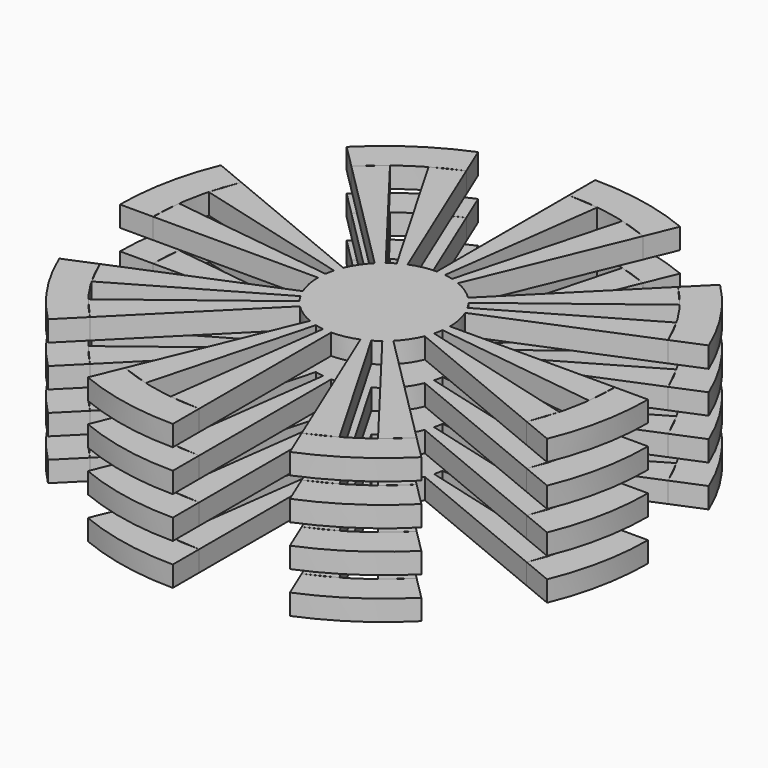
from build123d import *

# Parameters (mm, degrees)
F1_DEPTH = 12.5
F2_DEPTH = 12.5
F4_DEPTH = 12.5
F5_W     = 20
F5_H     = 1.5625


with BuildPart() as f1:
    # F0 (on Top) → F1 (new body)
    with BuildSketch(Plane.XY):
        with BuildLine():
            Line((17.5, 0), (20, 0))
            ThreePointArc((20, 0), (19.6157056081, 3.9018064403), (18.4775906502, 7.6536686473))
            Line((18.4775906502, 7.6536686473), (16.1678918189, 6.6969600664))
            ThreePointArc((16.1678918189, 6.6969600664), (17.1637424071, 3.4140806353), (17.5, 0))
        make_face()
        with BuildLine():
            ThreePointArc((18.4775906502, -7.6536686473), (19.6157056081, -3.9018064403), (20, 0))
            Line((20, 0), (17.5, 0))
            ThreePointArc((17.5, 0), (17.1637424071, -3.4140806353), (16.1678918189, -6.6969600664))
            Line((16.1678918189, -6.6969600664), (18.4775906502, -7.6536686473))
        make_face()
        with BuildLine():
            Line((16.1678918189, 6.6969600664), (18.4775906502, 7.6536686473))
            ThreePointArc((18.4775906502, 7.6536686473), (16.6293922461, 11.1114046604), (14.1421356237, 14.1421356237))
            Line((14.1421356237, 14.1421356237), (12.3743686708, 12.3743686708))
            ThreePointArc((12.3743686708, 12.3743686708), (14.5507182153, 9.7224790778), (16.1678918189, 6.6969600664))
        make_face()
        with BuildLine():
            ThreePointArc((14.1421356237, -14.1421356237), (16.6293922461, -11.1114046604), (18.4775906502, -7.6536686473))
            Line((18.4775906502, -7.6536686473), (16.1678918189, -6.6969600664))
            ThreePointArc((16.1678918189, -6.6969600664), (14.5507182153, -9.7224790778), (12.3743686708, -12.3743686708))
            Line((12.3743686708, -12.3743686708), (14.1421356237, -14.1421356237))
        make_face()
        with BuildLine():
            Line((12.3743686708, 12.3743686708), (14.1421356237, 14.1421356237))
            ThreePointArc((14.1421356237, 14.1421356237), (11.1114046604, 16.6293922461), (7.6536686473, 18.4775906502))
            Line((7.6536686473, 18.4775906502), (6.6969600664, 16.1678918189))
            ThreePointArc((6.6969600664, 16.1678918189), (9.7224790778, 14.5507182153), (12.3743686708, 12.3743686708))
        make_face()
        with BuildLine():
            ThreePointArc((7.6536686473, -18.4775906502), (11.1114046604, -16.6293922461), (14.1421356237, -14.1421356237))
            Line((14.1421356237, -14.1421356237), (12.3743686708, -12.3743686708))
            ThreePointArc((12.3743686708, -12.3743686708), (9.7224790778, -14.5507182153), (6.6969600664, -16.1678918189))
            Line((6.6969600664, -16.1678918189), (7.6536686473, -18.4775906502))
        make_face()
        with BuildLine():
            Line((6.6969600664, 16.1678918189), (7.6536686473, 18.4775906502))
            ThreePointArc((7.6536686473, 18.4775906502), (3.9018064403, 19.6157056081), (0, 20))
            Line((0, 20), (0, 17.5))
            ThreePointArc((0, 17.5), (3.4140806353, 17.1637424071), (6.6969600664, 16.1678918189))
        make_face()
        with BuildLine():
            ThreePointArc((0, -20), (3.9018064403, -19.6157056081), (7.6536686473, -18.4775906502))
            Line((7.6536686473, -18.4775906502), (6.6969600664, -16.1678918189))
            ThreePointArc((6.6969600664, -16.1678918189), (3.4140806353, -17.1637424071), (0, -17.5))
            Line((0, -17.5), (0, -20))
        make_face()
        with BuildLine():
            ThreePointArc((-6.6969600664, 16.1678918189), (-3.4140806353, 17.1637424071), (0, 17.5))
            Line((0, 17.5), (0, 20))
            ThreePointArc((0, 20), (-3.9018064403, 19.6157056081), (-7.6536686473, 18.4775906502))
            Line((-7.6536686473, 18.4775906502), (-6.6969600664, 16.1678918189))
        make_face()
        with BuildLine():
            Line((0, -20), (0, -17.5))
            ThreePointArc((0, -17.5), (-3.4140806353, -17.1637424071), (-6.6969600664, -16.1678918189))
            Line((-6.6969600664, -16.1678918189), (-7.6536686473, -18.4775906502))
            ThreePointArc((-7.6536686473, -18.4775906502), (-3.9018064403, -19.6157056081), (0, -20))
        make_face()
        with BuildLine():
            ThreePointArc((-12.3743686708, 12.3743686708), (-9.7224790778, 14.5507182153), (-6.6969600664, 16.1678918189))
            Line((-6.6969600664, 16.1678918189), (-7.6536686473, 18.4775906502))
            ThreePointArc((-7.6536686473, 18.4775906502), (-11.1114046604, 16.6293922461), (-14.1421356237, 14.1421356237))
            Line((-14.1421356237, 14.1421356237), (-12.3743686708, 12.3743686708))
        make_face()
        with BuildLine():
            ThreePointArc((-16.1678918189, 6.6969600664), (-14.5507182153, 9.7224790778), (-12.3743686708, 12.3743686708))
            Line((-12.3743686708, 12.3743686708), (-14.1421356237, 14.1421356237))
            ThreePointArc((-14.1421356237, 14.1421356237), (-16.6293922461, 11.1114046604), (-18.4775906502, 7.6536686473))
            Line((-18.4775906502, 7.6536686473), (-16.1678918189, 6.6969600664))
        make_face()
        with BuildLine():
            ThreePointArc((-17.5, 0), (-17.1637424071, 3.4140806353), (-16.1678918189, 6.6969600664))
            Line((-16.1678918189, 6.6969600664), (-18.4775906502, 7.6536686473))
            ThreePointArc((-18.4775906502, 7.6536686473), (-19.6157056081, 3.9018064403), (-20, 0))
            Line((-20, 0), (-17.5, 0))
        make_face()
        with BuildLine():
            ThreePointArc((-16.1678918189, -6.6969600664), (-17.1637424071, -3.4140806353), (-17.5, 0))
            Line((-17.5, 0), (-20, 0))
            ThreePointArc((-20, 0), (-19.6157056081, -3.9018064403), (-18.4775906502, -7.6536686473))
            Line((-18.4775906502, -7.6536686473), (-16.1678918189, -6.6969600664))
        make_face()
        with BuildLine():
            ThreePointArc((-12.3743686708, -12.3743686708), (-14.5507182153, -9.7224790778), (-16.1678918189, -6.6969600664))
            Line((-16.1678918189, -6.6969600664), (-18.4775906502, -7.6536686473))
            ThreePointArc((-18.4775906502, -7.6536686473), (-16.6293922461, -11.1114046604), (-14.1421356237, -14.1421356237))
            Line((-14.1421356237, -14.1421356237), (-12.3743686708, -12.3743686708))
        make_face()
        with BuildLine():
            ThreePointArc((-6.6969600664, -16.1678918189), (-9.7224790778, -14.5507182153), (-12.3743686708, -12.3743686708))
            Line((-12.3743686708, -12.3743686708), (-14.1421356237, -14.1421356237))
            ThreePointArc((-14.1421356237, -14.1421356237), (-11.1114046604, -16.6293922461), (-7.6536686473, -18.4775906502))
            Line((-7.6536686473, -18.4775906502), (-6.6969600664, -16.1678918189))
        make_face()
    extrude(amount=F1_DEPTH)

    # F0 (on Top) → F2 (cut)
    with BuildSketch(Plane.XY):
        with BuildLine():
            ThreePointArc((-6.6969600664, 16.1678918189), (-3.4140806353, 17.1637424071), (0, 17.5))
            Line((0, 17.5), (0, 20))
            ThreePointArc((0, 20), (-3.9018064403, 19.6157056081), (-7.6536686473, 18.4775906502))
            Line((-7.6536686473, 18.4775906502), (-6.6969600664, 16.1678918189))
        make_face()
        with BuildLine():
            ThreePointArc((14.1421356237, -14.1421356237), (16.6293922461, -11.1114046604), (18.4775906502, -7.6536686473))
            Line((18.4775906502, -7.6536686473), (16.1678918189, -6.6969600664))
            ThreePointArc((16.1678918189, -6.6969600664), (14.5507182153, -9.7224790778), (12.3743686708, -12.3743686708))
            Line((12.3743686708, -12.3743686708), (14.1421356237, -14.1421356237))
        make_face()
        with BuildLine():
            ThreePointArc((-16.1678918189, -6.6969600664), (-17.1637424071, -3.4140806353), (-17.5, 0))
            Line((-17.5, 0), (-20, 0))
            ThreePointArc((-20, 0), (-19.6157056081, -3.9018064403), (-18.4775906502, -7.6536686473))
            Line((-18.4775906502, -7.6536686473), (-16.1678918189, -6.6969600664))
        make_face()
        with BuildLine():
            ThreePointArc((-6.6969600664, -16.1678918189), (-9.7224790778, -14.5507182153), (-12.3743686708, -12.3743686708))
            Line((-12.3743686708, -12.3743686708), (-14.1421356237, -14.1421356237))
            ThreePointArc((-14.1421356237, -14.1421356237), (-11.1114046604, -16.6293922461), (-7.6536686473, -18.4775906502))
            Line((-7.6536686473, -18.4775906502), (-6.6969600664, -16.1678918189))
        make_face()
        with BuildLine():
            ThreePointArc((0, -20), (3.9018064403, -19.6157056081), (7.6536686473, -18.4775906502))
            Line((7.6536686473, -18.4775906502), (6.6969600664, -16.1678918189))
            ThreePointArc((6.6969600664, -16.1678918189), (3.4140806353, -17.1637424071), (0, -17.5))
            Line((0, -17.5), (0, -20))
        make_face()
        with BuildLine():
            ThreePointArc((-16.1678918189, 6.6969600664), (-14.5507182153, 9.7224790778), (-12.3743686708, 12.3743686708))
            Line((-12.3743686708, 12.3743686708), (-14.1421356237, 14.1421356237))
            ThreePointArc((-14.1421356237, 14.1421356237), (-16.6293922461, 11.1114046604), (-18.4775906502, 7.6536686473))
            Line((-18.4775906502, 7.6536686473), (-16.1678918189, 6.6969600664))
        make_face()
        with BuildLine():
            Line((17.5, 0), (20, 0))
            ThreePointArc((20, 0), (19.6157056081, 3.9018064403), (18.4775906502, 7.6536686473))
            Line((18.4775906502, 7.6536686473), (16.1678918189, 6.6969600664))
            ThreePointArc((16.1678918189, 6.6969600664), (17.1637424071, 3.4140806353), (17.5, 0))
        make_face()
        with BuildLine():
            Line((12.3743686708, 12.3743686708), (14.1421356237, 14.1421356237))
            ThreePointArc((14.1421356237, 14.1421356237), (11.1114046604, 16.6293922461), (7.6536686473, 18.4775906502))
            Line((7.6536686473, 18.4775906502), (6.6969600664, 16.1678918189))
            ThreePointArc((6.6969600664, 16.1678918189), (9.7224790778, 14.5507182153), (12.3743686708, 12.3743686708))
        make_face()
    extrude(amount=F2_DEPTH, mode=Mode.SUBTRACT)


with BuildPart() as f4:
    # F3 (on Top) → F4 (new body)
    with BuildSketch(Plane.XY):
        with BuildLine():
            Line((-0.6526309611, -4.9572243069), (0, 0))
            Line((0, 0), (-1.2940952255, -4.8296291314))
            ThreePointArc((-1.2940952255, -4.8296291314), (-0.9754516101, -4.903926402), (-0.6526309611, -4.9572243069))
        make_face()
        with BuildLine():
            Line((3.9667667015, 3.043807145), (0, 0))
            Line((0, 0), (4.3301270189, 2.5))
            ThreePointArc((4.3301270189, 2.5), (4.1573480615, 2.7778511651), (3.9667667015, 3.043807145))
        make_face()
        with BuildLine():
            Line((0, -5), (0, 0))
            Line((0, 0), (-0.6526309611, -4.9572243069))
            ThreePointArc((-0.6526309611, -4.9572243069), (-0.3270156462, -4.9892946162), (0, -5))
        make_face()
        with BuildLine():
            Line((0, 0), (4.6193976626, 1.9134171618))
            ThreePointArc((4.6193976626, 1.9134171618), (4.4843637077, 2.2114434511), (4.3301270189, 2.5))
            Line((4.3301270189, 2.5), (0, 0))
        make_face()
        with BuildLine():
            Line((1.9134171618, -4.6193976626), (0, 0))
            Line((0, 0), (0, -5))
            ThreePointArc((0, -5), (0.9754516101, -4.903926402), (1.9134171618, -4.6193976626))
        make_face()
        with BuildLine():
            Line((0, 0), (5, 0))
            ThreePointArc((5, 0), (4.903926402, 0.9754516101), (4.6193976626, 1.9134171618))
            Line((4.6193976626, 1.9134171618), (0, 0))
        make_face()
        with BuildLine():
            ThreePointArc((4.9572243069, -0.6526309611), (4.9892946162, -0.3270156462), (5, 0))
            Line((5, 0), (0, 0))
            Line((0, 0), (4.9572243069, -0.6526309611))
        make_face()
        with BuildLine():
            Line((2.5, -4.3301270189), (0, 0))
            Line((0, 0), (1.9134171618, -4.6193976626))
            ThreePointArc((1.9134171618, -4.6193976626), (2.2114434511, -4.4843637077), (2.5, -4.3301270189))
        make_face()
        with BuildLine():
            Line((-2.5, 4.3301270189), (0, 0))
            Line((0, 0), (-1.9134171618, 4.6193976626))
            ThreePointArc((-1.9134171618, 4.6193976626), (-2.2114434511, 4.4843637077), (-2.5, 4.3301270189))
        make_face()
        with BuildLine():
            Line((3.043807145, -3.9667667015), (0, 0))
            Line((0, 0), (2.5, -4.3301270189))
            ThreePointArc((2.5, -4.3301270189), (2.7778511651, -4.1573480615), (3.043807145, -3.9667667015))
        make_face()
        with BuildLine():
            Line((-3.043807145, 3.9667667015), (0, 0))
            Line((0, 0), (-2.5, 4.3301270189))
            ThreePointArc((-2.5, 4.3301270189), (-2.7778511651, 4.1573480615), (-3.043807145, 3.9667667015))
        make_face()
        with BuildLine():
            Line((-4.8296291314, 1.2940952255), (0, 0))
            Line((0, 0), (-4.6193976626, 1.9134171618))
            ThreePointArc((-4.6193976626, 1.9134171618), (-4.7346506475, 1.6071973265), (-4.8296291314, 1.2940952255))
        make_face()
        with BuildLine():
            Line((4.8296291314, -1.2940952255), (0, 0))
            Line((0, 0), (4.6193976626, -1.9134171618))
            ThreePointArc((4.6193976626, -1.9134171618), (4.7346506475, -1.6071973265), (4.8296291314, -1.2940952255))
        make_face()
        with BuildLine():
            Line((3.5355339059, -3.5355339059), (0, 0))
            Line((0, 0), (3.043807145, -3.9667667015))
            ThreePointArc((3.043807145, -3.9667667015), (3.2967290755, -3.7591990374), (3.5355339059, -3.5355339059))
        make_face()
        with BuildLine():
            Line((-3.5355339059, 3.5355339059), (0, 0))
            Line((0, 0), (-3.043807145, 3.9667667015))
            ThreePointArc((-3.043807145, 3.9667667015), (-3.2967290755, 3.7591990374), (-3.5355339059, 3.5355339059))
        make_face()
        with BuildLine():
            ThreePointArc((4.8296291314, -1.2940952255), (4.903926402, -0.9754516101), (4.9572243069, -0.6526309611))
            Line((4.9572243069, -0.6526309611), (0, 0))
            Line((0, 0), (4.8296291314, -1.2940952255))
        make_face()
        with BuildLine():
            Line((4.6193976626, -1.9134171618), (0, 0))
            Line((0, 0), (3.5355339059, -3.5355339059))
            ThreePointArc((3.5355339059, -3.5355339059), (4.1573480615, -2.7778511651), (4.6193976626, -1.9134171618))
        make_face()
        with BuildLine():
            Line((-4.6193976626, 1.9134171618), (0, 0))
            Line((0, 0), (-3.5355339059, 3.5355339059))
            ThreePointArc((-3.5355339059, 3.5355339059), (-4.1573480615, 2.7778511651), (-4.6193976626, 1.9134171618))
        make_face()
        with BuildLine():
            Line((0, 5), (0, 0))
            Line((0, 0), (0.6526309611, 4.9572243069))
            ThreePointArc((0.6526309611, 4.9572243069), (0.3270156462, 4.9892946162), (0, 5))
        make_face()
        with BuildLine():
            Line((-4.3301270189, -2.5), (0, 0))
            Line((0, 0), (-4.6193976626, -1.9134171618))
            ThreePointArc((-4.6193976626, -1.9134171618), (-4.4843637077, -2.2114434511), (-4.3301270189, -2.5))
        make_face()
        with BuildLine():
            Line((-1.9134171618, 4.6193976626), (0, 0))
            Line((0, 0), (0, 5))
            ThreePointArc((0, 5), (-0.9754516101, 4.903926402), (-1.9134171618, 4.6193976626))
        make_face()
        with BuildLine():
            Line((-3.9667667015, -3.043807145), (0, 0))
            Line((0, 0), (-4.3301270189, -2.5))
            ThreePointArc((-4.3301270189, -2.5), (-4.1573480615, -2.7778511651), (-3.9667667015, -3.043807145))
        make_face()
        with BuildLine():
            Line((0.6526309611, 4.9572243069), (0, 0))
            Line((0, 0), (1.2940952255, 4.8296291314))
            ThreePointArc((1.2940952255, 4.8296291314), (0.9754516101, 4.903926402), (0.6526309611, 4.9572243069))
        make_face()
        with BuildLine():
            Line((-3.5355339059, -3.5355339059), (0, 0))
            Line((0, 0), (-3.9667667015, -3.043807145))
            ThreePointArc((-3.9667667015, -3.043807145), (-3.7591990374, -3.2967290755), (-3.5355339059, -3.5355339059))
        make_face()
        with BuildLine():
            Line((1.2940952255, 4.8296291314), (0, 0))
            Line((0, 0), (1.9134171618, 4.6193976626))
            ThreePointArc((1.9134171618, 4.6193976626), (1.6071973265, 4.7346506475), (1.2940952255, 4.8296291314))
        make_face()
        with BuildLine():
            Line((-1.9134171618, -4.6193976626), (0, 0))
            Line((0, 0), (-3.5355339059, -3.5355339059))
            ThreePointArc((-3.5355339059, -3.5355339059), (-2.7778511651, -4.1573480615), (-1.9134171618, -4.6193976626))
        make_face()
        with BuildLine():
            Line((1.9134171618, 4.6193976626), (0, 0))
            Line((0, 0), (3.5355339059, 3.5355339059))
            ThreePointArc((3.5355339059, 3.5355339059), (2.7778511651, 4.1573480615), (1.9134171618, 4.6193976626))
        make_face()
        with BuildLine():
            Line((-1.2940952255, -4.8296291314), (0, 0))
            Line((0, 0), (-1.9134171618, -4.6193976626))
            ThreePointArc((-1.9134171618, -4.6193976626), (-1.6071973265, -4.7346506475), (-1.2940952255, -4.8296291314))
        make_face()
        with BuildLine():
            Line((3.5355339059, 3.5355339059), (0, 0))
            Line((0, 0), (3.9667667015, 3.043807145))
            ThreePointArc((3.9667667015, 3.043807145), (3.7591990374, 3.2967290755), (3.5355339059, 3.5355339059))
        make_face()
        with BuildLine():
            Line((-5, 0), (0, 0))
            Line((0, 0), (-4.9572243069, 0.6526309611))
            ThreePointArc((-4.9572243069, 0.6526309611), (-4.9892946162, 0.3270156462), (-5, 0))
        make_face()
        with BuildLine():
            Line((-4.9572243069, 0.6526309611), (0, 0))
            Line((0, 0), (-4.8296291314, 1.2940952255))
            ThreePointArc((-4.8296291314, 1.2940952255), (-4.903926402, 0.9754516101), (-4.9572243069, 0.6526309611))
        make_face()
        with BuildLine():
            Line((-4.6193976626, -1.9134171618), (0, 0))
            Line((0, 0), (-5, 0))
            ThreePointArc((-5, 0), (-4.903926402, -0.9754516101), (-4.6193976626, -1.9134171618))
        make_face()
        with BuildLine():
            Line((12.3743686708, 12.3743686708), (3.5355339059, 3.5355339059))
            ThreePointArc((3.5355339059, 3.5355339059), (3.7591990374, 3.2967290755), (3.9667667015, 3.043807145))
            Line((3.9667667015, 3.043807145), (13.8836834551, 10.6533250077))
            Line((13.8836834551, 10.6533250077), (12.3743686708, 12.3743686708))
        make_face()
        with BuildLine():
            ThreePointArc((4.3301270189, 2.5), (4.4843637077, 2.2114434511), (4.6193976626, 1.9134171618))
            Line((4.6193976626, 1.9134171618), (16.1678918189, 6.6969600664))
            Line((16.1678918189, 6.6969600664), (15.1554445662, 8.75))
            Line((15.1554445662, 8.75), (4.3301270189, 2.5))
        make_face()
        with BuildLine():
            Line((4.5293332893, 16.9037019601), (1.2940952255, 4.8296291314))
            ThreePointArc((1.2940952255, 4.8296291314), (1.6071973265, 4.7346506475), (1.9134171618, 4.6193976626))
            Line((1.9134171618, 4.6193976626), (6.6969600664, 16.1678918189))
            Line((6.6969600664, 16.1678918189), (4.5293332893, 16.9037019601))
        make_face()
        with BuildLine():
            Line((0, 17.5), (0, 5))
            ThreePointArc((0, 5), (0.3270156462, 4.9892946162), (0.6526309611, 4.9572243069))
            Line((0.6526309611, 4.9572243069), (2.2842083639, 17.350285074))
            Line((2.2842083639, 17.350285074), (0, 17.5))
        make_face()
        with BuildLine():
            Line((-8.75, 15.1554445662), (-2.5, 4.3301270189))
            ThreePointArc((-2.5, 4.3301270189), (-2.2114434511, 4.4843637077), (-1.9134171618, 4.6193976626))
            Line((-1.9134171618, 4.6193976626), (-6.6969600664, 16.1678918189))
            Line((-6.6969600664, 16.1678918189), (-8.75, 15.1554445662))
        make_face()
        with BuildLine():
            Line((-12.3743686708, 12.3743686708), (-3.5355339059, 3.5355339059))
            ThreePointArc((-3.5355339059, 3.5355339059), (-3.2967290755, 3.7591990374), (-3.043807145, 3.9667667015))
            Line((-3.043807145, 3.9667667015), (-10.6533250077, 13.8836834551))
            Line((-10.6533250077, 13.8836834551), (-12.3743686708, 12.3743686708))
        make_face()
        with BuildLine():
            Line((-16.9037019601, 4.5293332893), (-4.8296291314, 1.2940952255))
            ThreePointArc((-4.8296291314, 1.2940952255), (-4.7346506475, 1.6071973265), (-4.6193976626, 1.9134171618))
            Line((-4.6193976626, 1.9134171618), (-16.1678918189, 6.6969600664))
            Line((-16.1678918189, 6.6969600664), (-16.9037019601, 4.5293332893))
        make_face()
        with BuildLine():
            Line((-17.5, 0), (-5, 0))
            ThreePointArc((-5, 0), (-4.9892946162, 0.3270156462), (-4.9572243069, 0.6526309611))
            Line((-4.9572243069, 0.6526309611), (-17.350285074, 2.2842083639))
            Line((-17.350285074, 2.2842083639), (-17.5, 0))
        make_face()
        with BuildLine():
            Line((-15.1554445662, -8.75), (-4.3301270189, -2.5))
            ThreePointArc((-4.3301270189, -2.5), (-4.4843637077, -2.2114434511), (-4.6193976626, -1.9134171618))
            Line((-4.6193976626, -1.9134171618), (-16.1678918189, -6.6969600664))
            Line((-16.1678918189, -6.6969600664), (-15.1554445662, -8.75))
        make_face()
        with BuildLine():
            Line((-12.3743686708, -12.3743686708), (-3.5355339059, -3.5355339059))
            ThreePointArc((-3.5355339059, -3.5355339059), (-3.7591990374, -3.2967290755), (-3.9667667015, -3.043807145))
            Line((-3.9667667015, -3.043807145), (-13.8836834551, -10.6533250077))
            Line((-13.8836834551, -10.6533250077), (-12.3743686708, -12.3743686708))
        make_face()
        with BuildLine():
            Line((-4.5293332893, -16.9037019601), (-1.2940952255, -4.8296291314))
            ThreePointArc((-1.2940952255, -4.8296291314), (-1.6071973265, -4.7346506475), (-1.9134171618, -4.6193976626))
            Line((-1.9134171618, -4.6193976626), (-6.6969600664, -16.1678918189))
            Line((-6.6969600664, -16.1678918189), (-4.5293332893, -16.9037019601))
        make_face()
        with BuildLine():
            Line((0, -17.5), (0, -5))
            ThreePointArc((0, -5), (-0.3270156462, -4.9892946162), (-0.6526309611, -4.9572243069))
            Line((-0.6526309611, -4.9572243069), (-2.2842083639, -17.350285074))
            Line((-2.2842083639, -17.350285074), (0, -17.5))
        make_face()
        with BuildLine():
            Line((8.75, -15.1554445662), (2.5, -4.3301270189))
            ThreePointArc((2.5, -4.3301270189), (2.2114434511, -4.4843637077), (1.9134171618, -4.6193976626))
            Line((1.9134171618, -4.6193976626), (6.6969600664, -16.1678918189))
            Line((6.6969600664, -16.1678918189), (8.75, -15.1554445662))
        make_face()
        with BuildLine():
            Line((12.3743686708, -12.3743686708), (3.5355339059, -3.5355339059))
            ThreePointArc((3.5355339059, -3.5355339059), (3.2967290755, -3.7591990374), (3.043807145, -3.9667667015))
            Line((3.043807145, -3.9667667015), (10.6533250077, -13.8836834551))
            Line((10.6533250077, -13.8836834551), (12.3743686708, -12.3743686708))
        make_face()
        with BuildLine():
            Line((16.1678918189, -6.6969600664), (16.9037019601, -4.5293332893))
            Line((16.9037019601, -4.5293332893), (4.8296291314, -1.2940952255))
            ThreePointArc((4.8296291314, -1.2940952255), (4.7346506475, -1.6071973265), (4.6193976626, -1.9134171618))
            Line((4.6193976626, -1.9134171618), (16.1678918189, -6.6969600664))
        make_face()
        with BuildLine():
            Line((17.350285074, -2.2842083639), (17.5, 0))
            Line((17.5, 0), (5, 0))
            ThreePointArc((5, 0), (4.9892946162, -0.3270156462), (4.9572243069, -0.6526309611))
            Line((4.9572243069, -0.6526309611), (17.350285074, -2.2842083639))
        make_face()
    extrude(amount=F4_DEPTH)


with BuildPart() as f6_tool:
    # F5 (on Front) → F6 (revolve)
    with BuildSketch(Plane.XZ):
        with Locations((-10, 0.78125)):
            Rectangle(F5_W, F5_H)
        with Locations((-10, 10.15625)):
            Rectangle(F5_W, F5_H)
        with Locations((-10, 7.03125)):
            Rectangle(F5_W, F5_H)
        with Locations((-10, 3.90625)):
            Rectangle(F5_W, F5_H)
    revolve(axis=Axis((0, 0, 10.9375), (0, 0, 1)))


with BuildPart() as f1_1:
    add(f1.part)

    # F6: cut by f6_tool
    add(f6_tool.part, mode=Mode.SUBTRACT)


with BuildPart() as f4_1:
    add(f4.part)

    # F6: cut by f6_tool
    add(f6_tool.part, mode=Mode.SUBTRACT)


solid = Compound([f1_1.part, f4_1.part])
